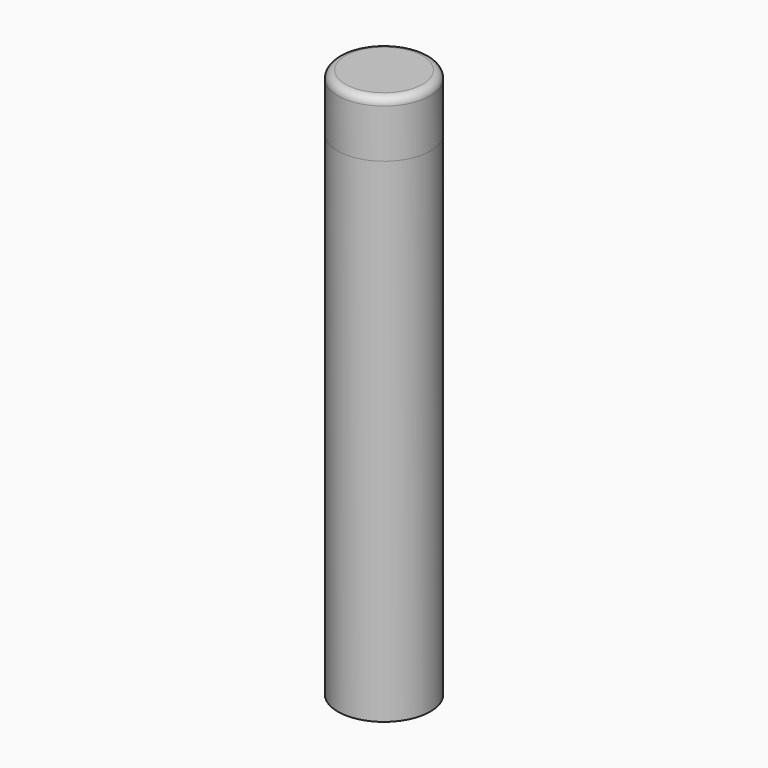
from build123d import *

# Parameters (mm, degrees)
F0_R     = 6
F0_R_2   = 3
F1_DEPTH = 64
F2_R     = 6
F3_DEPTH = 7.3
F4_R     = 1


with BuildPart() as f1:
    # F0 (on Top) → F1 (new body)
    with BuildSketch(Plane.XY):
        Circle(F0_R)
        Circle(F0_R_2, mode=Mode.SUBTRACT)
    extrude(amount=F1_DEPTH)


with BuildPart() as f3:
    # F2 (on face) → F3 (new body)
    with BuildSketch(Plane.XY.offset(64)):
        Circle(F2_R)
    extrude(amount=F3_DEPTH)

    # F4
    f4_edges = [f3.edges().sort_by_distance(p)[0] for p in [
        (-6, 0, 71.3),
    ]]
    fillet(f4_edges, radius=F4_R)


solid = Compound([f1.part, f3.part])
